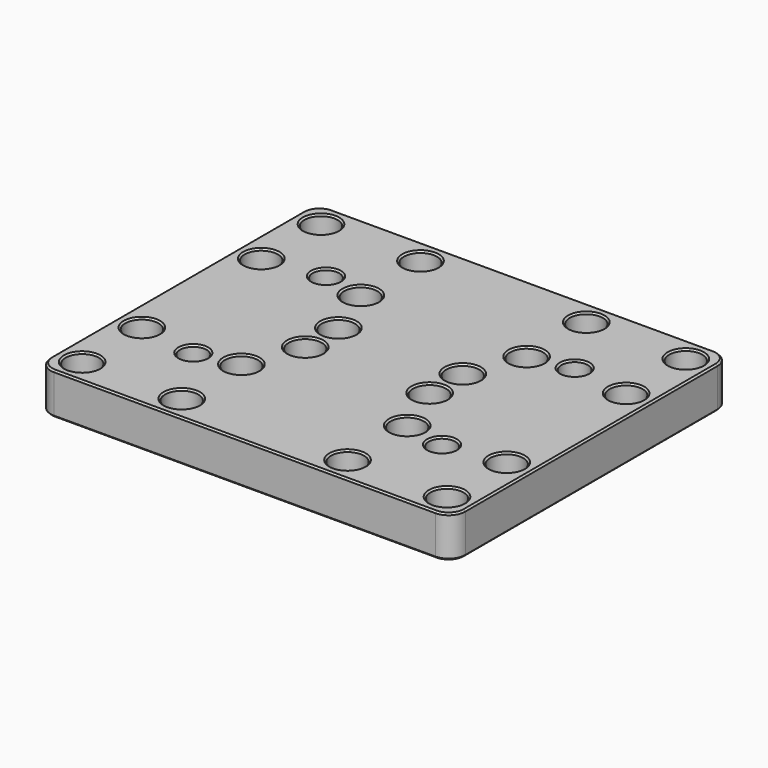
from build123d import *

# Parameters (mm, degrees)
SKETCH_W        = 100
SKETCH_H        = 84
PAD_DEPTH       = 10
SKETCH001_R     = 2.1
POCKET_DEPTH    = 10
SKETCH002_R     = 3.2
POCKET001_DEPTH = 10
SKETCH003_R     = 4
POCKET002_DEPTH = 5
POCKET003_DEPTH = 4
POCKET004_DEPTH = 5.2
FILLET_R        = 4
CHAMFER_SIZE    = 0.4
CHAMFER001_SIZE = 0.4


with BuildPart() as part:
    # Sketch → Pad (new body)
    with BuildSketch(Plane.XY):
        with Locations((50, 42)):
            Rectangle(SKETCH_W, SKETCH_H)
    extrude(amount=PAD_DEPTH)

    # Sketch001 (on Face6 of Pad) → Pocket (cut)
    with BuildSketch(Plane.XY.offset(10)):
        with Locations((6, 78)):
            Circle(SKETCH001_R)
        with Locations((30, 78)):
            Circle(SKETCH001_R)
        with Locations((6, 60)):
            Circle(SKETCH001_R)
        with Locations((30, 60)):
            Circle(SKETCH001_R)
        with Locations((6, 24)):
            Circle(SKETCH001_R)
        with Locations((30, 24)):
            Circle(SKETCH001_R)
        with Locations((6, 6)):
            Circle(SKETCH001_R)
        with Locations((30, 6)):
            Circle(SKETCH001_R)
        with Locations((70, 78)):
            Circle(SKETCH001_R)
        with Locations((94, 78)):
            Circle(SKETCH001_R)
        with Locations((70, 60)):
            Circle(SKETCH001_R)
        with Locations((94, 60)):
            Circle(SKETCH001_R)
        with Locations((70, 24)):
            Circle(SKETCH001_R)
        with Locations((94, 24)):
            Circle(SKETCH001_R)
        with Locations((70, 6)):
            Circle(SKETCH001_R)
        with Locations((94, 6)):
            Circle(SKETCH001_R)
        with Locations((35, 47)):
            Circle(SKETCH001_R)
        with Locations((65, 47)):
            Circle(SKETCH001_R)
        with Locations((35, 37)):
            Circle(SKETCH001_R)
        with Locations((65, 37)):
            Circle(SKETCH001_R)
    extrude(amount=-POCKET_DEPTH, mode=Mode.SUBTRACT)

    # Sketch002 (on Face5 of Pocket) → Pocket001 (cut)
    with BuildSketch(Plane.XY.offset(10)):
        with Locations((20, 62)):
            Circle(SKETCH002_R)
        with Locations((20, 22)):
            Circle(SKETCH002_R)
        with Locations((80, 62)):
            Circle(SKETCH002_R)
        with Locations((80, 22)):
            Circle(SKETCH002_R)
    extrude(amount=-POCKET001_DEPTH, mode=Mode.SUBTRACT)

    # Sketch003 (on Face5 of Pocket001) → Pocket002 (cut)
    with BuildSketch(Plane.XY.offset(10)):
        with Locations((6, 78)):
            Circle(SKETCH003_R)
        with Locations((30, 78)):
            Circle(SKETCH003_R)
        with Locations((30, 60)):
            Circle(SKETCH003_R)
        with Locations((6, 60)):
            Circle(SKETCH003_R)
        with Locations((70, 78)):
            Circle(SKETCH003_R)
        with Locations((94, 78)):
            Circle(SKETCH003_R)
        with Locations((70, 60)):
            Circle(SKETCH003_R)
        with Locations((94, 60)):
            Circle(SKETCH003_R)
        with Locations((6, 24)):
            Circle(SKETCH003_R)
        with Locations((30, 24)):
            Circle(SKETCH003_R)
        with Locations((6, 6)):
            Circle(SKETCH003_R)
        with Locations((30, 6)):
            Circle(SKETCH003_R)
        with Locations((70, 24)):
            Circle(SKETCH003_R)
        with Locations((94, 24)):
            Circle(SKETCH003_R)
        with Locations((70, 6)):
            Circle(SKETCH003_R)
        with Locations((94, 6)):
            Circle(SKETCH003_R)
        with Locations((35, 47)):
            Circle(SKETCH003_R)
        with Locations((35, 37)):
            Circle(SKETCH003_R)
        with Locations((65, 37)):
            Circle(SKETCH003_R)
        with Locations((65, 47)):
            Circle(SKETCH003_R)
    extrude(amount=-POCKET002_DEPTH, mode=Mode.SUBTRACT)

    # Sketch003 (on Face5 of Pocket001) → Pocket003 (cut)
    with BuildSketch(Plane.XY.offset(10)):
        with Locations((6, 78)):
            Circle(SKETCH003_R)
        with Locations((30, 78)):
            Circle(SKETCH003_R)
        with Locations((30, 60)):
            Circle(SKETCH003_R)
        with Locations((6, 60)):
            Circle(SKETCH003_R)
        with Locations((70, 78)):
            Circle(SKETCH003_R)
        with Locations((94, 78)):
            Circle(SKETCH003_R)
        with Locations((70, 60)):
            Circle(SKETCH003_R)
        with Locations((94, 60)):
            Circle(SKETCH003_R)
        with Locations((6, 24)):
            Circle(SKETCH003_R)
        with Locations((30, 24)):
            Circle(SKETCH003_R)
        with Locations((6, 6)):
            Circle(SKETCH003_R)
        with Locations((30, 6)):
            Circle(SKETCH003_R)
        with Locations((70, 24)):
            Circle(SKETCH003_R)
        with Locations((94, 24)):
            Circle(SKETCH003_R)
        with Locations((70, 6)):
            Circle(SKETCH003_R)
        with Locations((94, 6)):
            Circle(SKETCH003_R)
        with Locations((35, 47)):
            Circle(SKETCH003_R)
        with Locations((35, 37)):
            Circle(SKETCH003_R)
        with Locations((65, 37)):
            Circle(SKETCH003_R)
        with Locations((65, 47)):
            Circle(SKETCH003_R)
    extrude(amount=-POCKET003_DEPTH, mode=Mode.SUBTRACT)

    # Sketch004 (on Face4 of Pocket003) → Pocket004 (cut)
    with BuildSketch(Plane(origin=(0, 0, 0), x_dir=(1, 0, 0), z_dir=(0, 0, -1))):
        Polygon((14.42356, -23.704889), (18.688257, -27.681783), (24.264697, -25.976895), (25.57644, -20.295111), (21.311743, -16.318217), (15.735303, -18.023105), align=None)
        Polygon((74.318217, -20.688257), (76.023105, -26.264697), (81.704889, -27.57644), (85.681783, -23.311743), (83.976895, -17.735303), (78.295111, -16.42356), align=None)
        Polygon((74.42356, -63.704889), (78.688257, -67.681783), (84.264697, -65.976895), (85.57644, -60.295111), (81.311743, -56.318217), (75.735303, -58.023105), align=None)
        Polygon((14.318217, -60.688257), (16.023105, -66.264697), (21.704889, -67.57644), (25.681783, -63.311743), (23.976895, -57.735303), (18.295111, -56.42356), align=None)
    extrude(amount=-POCKET004_DEPTH, mode=Mode.SUBTRACT)

    # Fillet
    fillet_edges = [part.edges().sort_by_distance(p)[0] for p in [
        (100, 0, 5),
        (100, 84, 5),
        (0, 0, 5),
        (0, 84, 5),
    ]]
    fillet(fillet_edges, radius=FILLET_R)

    # Chamfer
    chamfer_edges = [part.edges().sort_by_distance(p)[0] for p in [
        (50, 84, 10),
        (1.171573, 82.828427, 10),
        (98.828427, 82.828427, 10),
        (0, 42, 10),
        (100, 42, 10),
        (1.171573, 1.171573, 10),
        (98.828427, 1.171573, 10),
        (50, 0, 10),
        (90, 6, 10),
        (66, 6, 10),
        (90, 24, 10),
        (76.8, 22, 10),
        (66, 24, 10),
        (61, 37, 10),
        (26, 6, 10),
        (2, 6, 10),
        (26, 24, 10),
        (31, 37, 10),
        (16.8, 22, 10),
        (2, 24, 10),
        (90, 60, 10),
        (61, 47, 10),
        (66, 60, 10),
        (76.8, 62, 10),
        (90, 78, 10),
        (66, 78, 10),
        (31, 47, 10),
        (26, 60, 10),
        (2, 60, 10),
        (26, 78, 10),
        (16.8, 62, 10),
        (2, 78, 10),
    ]]
    chamfer(chamfer_edges, length=CHAMFER_SIZE)

    # Chamfer001
    chamfer001_edges = [part.edges().sort_by_distance(p)[0] for p in [
        (50, 84, 0),
        (1.171573, 82.828427, 0),
        (98.828427, 82.828427, 0),
        (0, 42, 0),
        (100, 42, 0),
        (1.171573, 1.171573, 0),
        (98.828427, 1.171573, 0),
        (50, 0, 0),
        (91.9, 6, 0),
        (75.170661, 23.476477, 0),
        (78.863997, 26.920569, 0),
        (83.693336, 25.444092, 0),
        (84.829339, 20.523523, 0),
        (81.136003, 17.079431, 0),
        (76.306664, 18.555908, 0),
        (67.9, 6, 0),
        (91.9, 24, 0),
        (67.9, 24, 0),
        (62.9, 37, 0),
        (27.9, 6, 0),
        (3.9, 6, 0),
        (16.555908, 25.693336, 0),
        (21.476477, 26.829339, 0),
        (24.920569, 23.136003, 0),
        (23.444092, 18.306664, 0),
        (18.523523, 17.170661, 0),
        (15.079431, 20.863997, 0),
        (27.9, 24, 0),
        (32.9, 37, 0),
        (3.9, 24, 0),
        (91.9, 60, 0),
        (62.9, 47, 0),
        (67.9, 60, 0),
        (76.555908, 65.693336, 0),
        (81.476477, 66.829339, 0),
        (84.920569, 63.136003, 0),
        (83.444092, 58.306664, 0),
        (78.523523, 57.170661, 0),
        (75.079431, 60.863997, 0),
        (91.9, 78, 0),
        (67.9, 78, 0),
        (32.9, 47, 0),
        (27.9, 60, 0),
        (3.9, 60, 0),
        (27.9, 78, 0),
        (15.170661, 63.476477, 0),
        (18.863997, 66.920569, 0),
        (23.693336, 65.444092, 0),
        (24.829339, 60.523523, 0),
        (21.136003, 57.079431, 0),
        (16.306664, 58.555908, 0),
        (3.9, 78, 0),
    ]]
    chamfer(chamfer001_edges, length=CHAMFER001_SIZE)


solid = part.part
